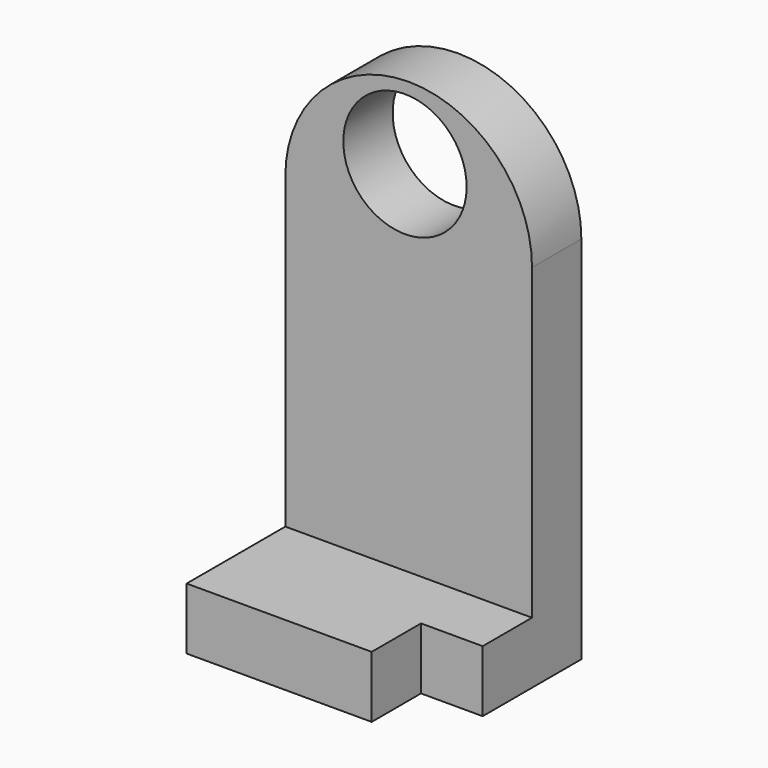
from build123d import *

# Parameters (mm, degrees)
F1_DEPTH = 12.7
F2_R     = 12.7
F3_DEPTH = 12.7
F4_W     = 50.8
F4_H     = 12.7
F5_DEPTH = 38.1
F6_W     = 12.7
F6_H     = 12.7
F7_DEPTH = 39.998543


with BuildPart() as f1:
    # F0 (on Front) → F1 (new body)
    with BuildSketch(Plane.XZ):
        with BuildLine():
            ThreePointArc((26.159194, 36.202457), (0.759194, 61.602457), (-24.640806, 36.202457))
            Line((-24.640806, 36.202457), (26.159194, 36.202457))
        make_face()
        with BuildLine():
            ThreePointArc((26.159194, 36.202457), (0.759194, 10.802457), (-24.640806, 36.202457))
            Line((-24.640806, 36.202457), (-24.640806, -39.997543))
            Line((-24.640806, -39.997543), (26.159194, -39.997543))
            Line((26.159194, -39.997543), (26.159194, 36.202457))
        make_face()
        with BuildLine():
            Line((26.159194, 36.202457), (-24.640806, 36.202457))
            ThreePointArc((-24.640806, 36.202457), (0.759194, 10.802457), (26.159194, 36.202457))
        make_face()
    extrude(amount=F1_DEPTH)

    # F2 (on Front) → F3 (cut)
    with BuildSketch(Plane.XZ):
        with Locations((0, 46.423854)):
            Circle(F2_R)
    extrude(amount=F3_DEPTH, mode=Mode.SUBTRACT)

    # F4 (on Front) → F5 (join)
    with BuildSketch(Plane.XZ):
        with Locations((0.759194, -33.647543)):
            Rectangle(F4_W, F4_H)
    extrude(amount=F5_DEPTH)

    # F6 (on Top) → F7 (cut, through all)
    with BuildSketch(Plane.XY):
        with Locations((19.809194, -31.75)):
            Rectangle(F6_W, F6_H)
    extrude(amount=-F7_DEPTH, mode=Mode.SUBTRACT)


solid = f1.part
